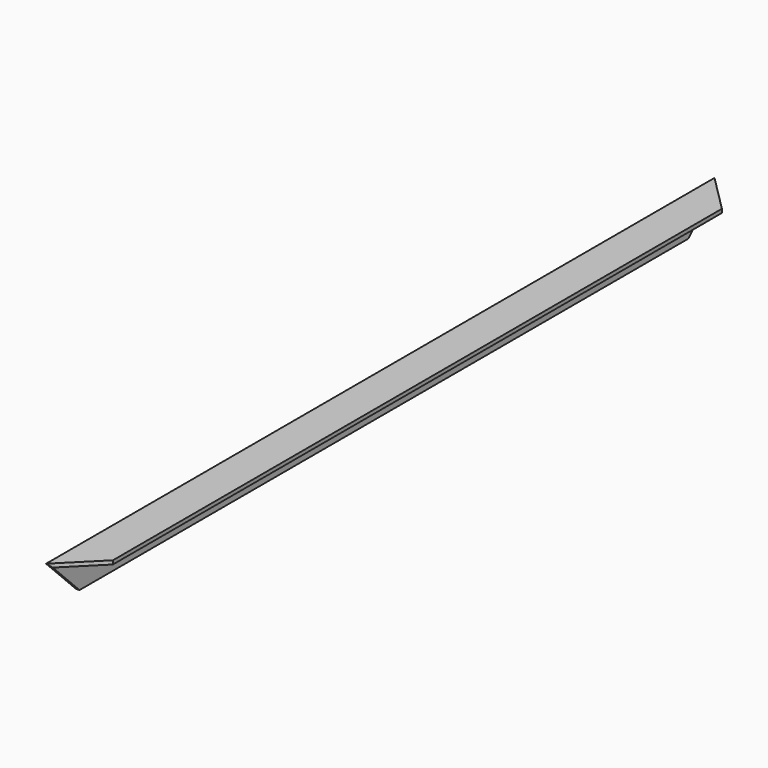
from build123d import *

# Parameters (mm, degrees)
F1_DEPTH = 450
F3_DEPTH = 40
F5_DEPTH = 40
F7_D     = 11


with BuildPart() as f1:
    # F0 (on Front) → F1 (new body, symmetric)
    with BuildSketch(Plane.XZ):
        Polygon((0, 40), (0, 0), (4, 0), (4, 36), (40, 36), (40, 40), align=None)
    extrude(amount=F1_DEPTH, both=True)

    # F2 (on face) → F3 (cut)
    with BuildSketch(Plane(origin=(0, 0, 0), x_dir=(0, -1, 0), z_dir=(-1, 0, 0))):
        Polygon((-410, 0), (-450, 40), (-450, 0), align=None)
        Polygon((450, 0), (450, 40), (410, 0), align=None)
    extrude(amount=-F3_DEPTH, mode=Mode.SUBTRACT)

    # F4 (on face) → F5 (cut)
    with BuildSketch(Plane.XY.offset(40)):
        Polygon((40, 450), (0, 450), (40, 410), align=None)
        Polygon((40, -410), (0, -450), (40, -450), align=None)
    extrude(amount=-F5_DEPTH, mode=Mode.SUBTRACT)

    # F7 (through all)
    with Locations(Plane(origin=(0, 0, 0), x_dir=(0, -1, 0), z_dir=(-1, 0, 0))):
        with Locations((300, 15), (-300, 15)):
            Hole(F7_D / 2)


solid = f1.part
